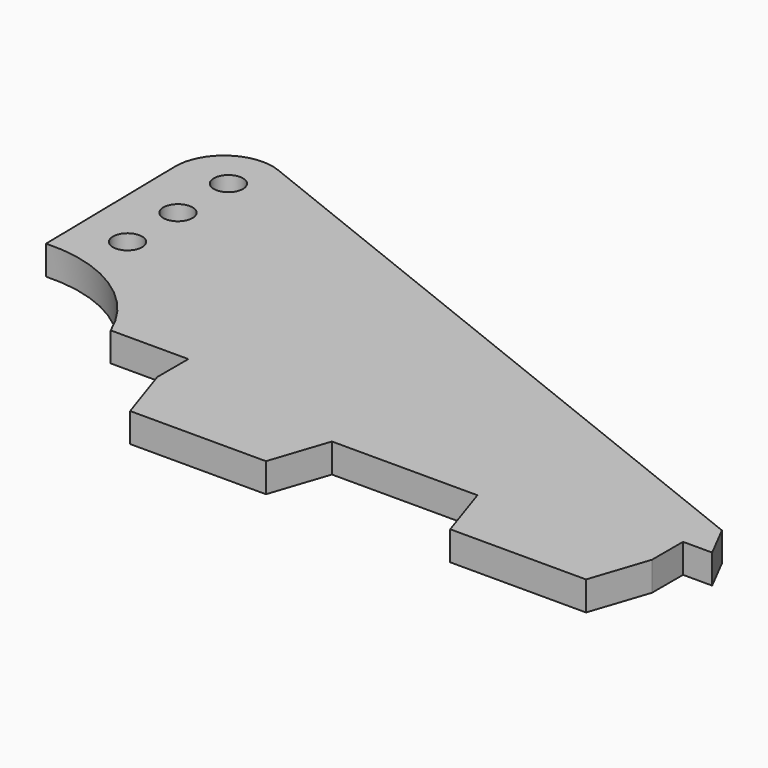
from build123d import *

# Parameters (mm, degrees)
F0_R     = 0.75
F1_DEPTH = 1.5


with BuildPart() as f1:
    # F0 (on Top) → F1 (new body)
    with BuildSketch(Plane.XY):
        with BuildLine():
            Line((4.462157, 19.713312), (3.560812, 21.470347))
            Line((3.560812, 21.470347), (-30.017679, 34.838138))
            ThreePointArc((-30.017679, 34.838138), (-32.363396, 34.572289), (-33.44199, 32.472361))
            Line((-33.44199, 32.472361), (-33.295908, 23.9945))
            ThreePointArc((-33.295908, 23.9945), (-29.243428, 22.916976), (-26.537843, 19.713312))
            Line((-26.537843, 19.713312), (-22.537843, 19.713312))
            Line((-22.537843, 19.713312), (-22.537843, 17.713312))
            Line((-22.537843, 17.713312), (-21.537843, 14.713312))
            Line((-21.537843, 14.713312), (-14.537843, 14.713312))
            Line((-14.537843, 14.713312), (-13.537843, 17.713312))
            Line((-13.537843, 17.713312), (-6.037843, 17.713312))
            Line((-6.037843, 17.713312), (-5.037843, 14.713312))
            Line((-5.037843, 14.713312), (1.962157, 14.713312))
            Line((1.962157, 14.713312), (2.962157, 17.713312))
            Line((2.962157, 17.713312), (2.962157, 19.713312))
            Line((2.962157, 19.713312), (4.462157, 19.713312))
        make_face()
        with Locations((-30.833643, 26.162979)):
            Circle(F0_R, mode=Mode.SUBTRACT)
        with Locations((-30.833643, 29.412979)):
            Circle(F0_R, mode=Mode.SUBTRACT)
        with Locations((-30.833643, 32.662979)):
            Circle(F0_R, mode=Mode.SUBTRACT)
    extrude(amount=F1_DEPTH)


solid = f1.part
